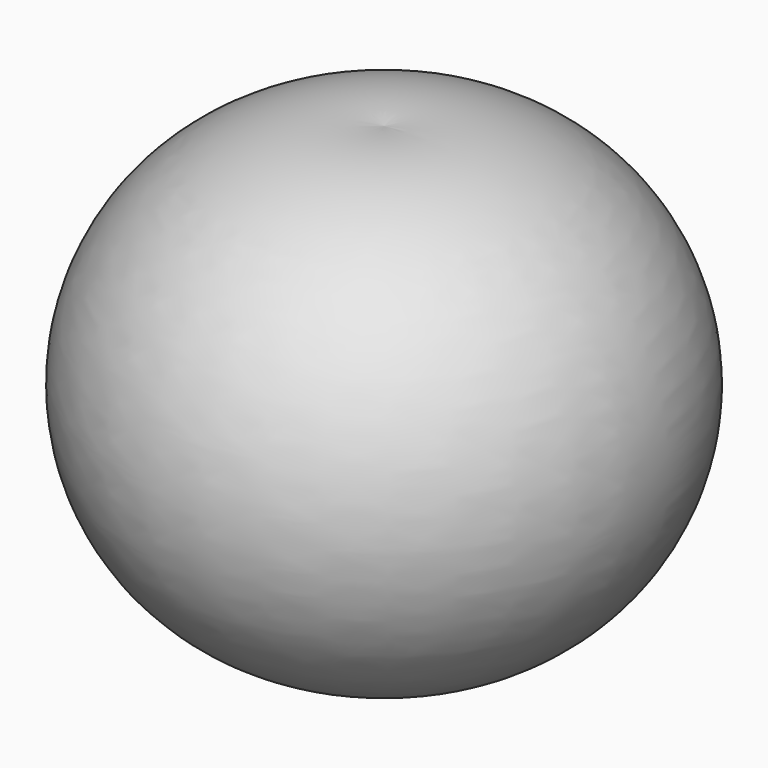
from build123d import *


with BuildPart() as f1:
    # F0 (on Front) → F1 (revolve)
    with BuildSketch(Plane.XZ):
        with BuildLine():
            ThreePointArc((0, 38.1), (22.821605, 19.05), (0, 0))
            Line((0, 0), (0, -3.861884))
            ThreePointArc((0, -3.861884), (26.631605, 19.05), (0, 41.961884))
            Line((0, 41.961884), (0, 38.1))
        make_face()
        with BuildLine():
            Line((0, 38.1), (0, 0))
            ThreePointArc((0, 0), (22.821605, 19.05), (0, 38.1))
        make_face()
    revolve(axis=Axis((0, 0, 32.759074), (0, 0, 1)))


solid = f1.part
